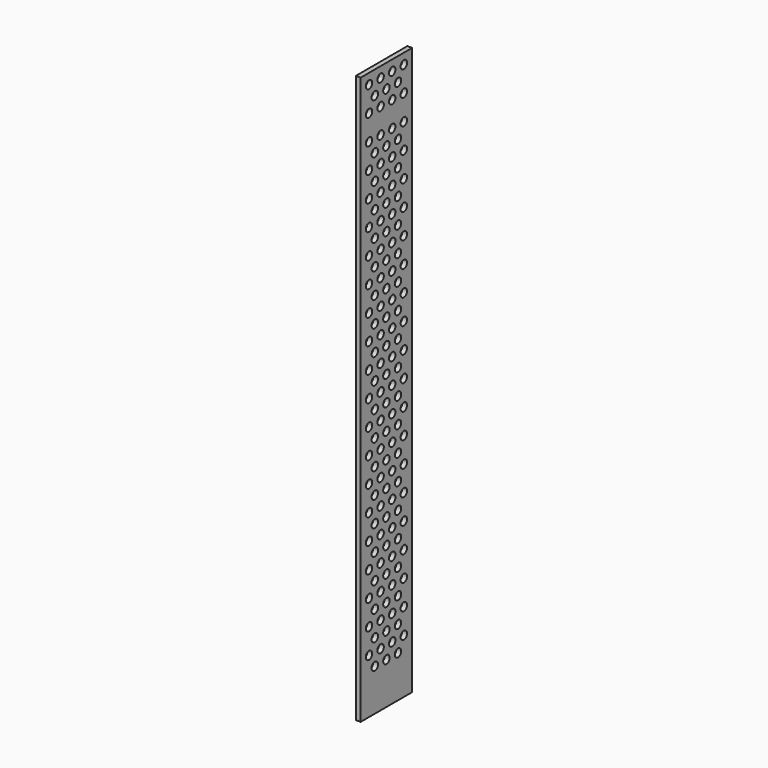
from build123d import *

# Parameters (mm, degrees)
F1_W     = 254
F1_H     = 2235.2
F1_R     = 15.875
F2_DEPTH = 19.05


with BuildPart() as f2:
    # F1 (on Right) → F2 (new body)
    with BuildSketch(Plane.YZ):
        Rectangle(F1_W, F1_H)
        with Locations((-85.725, -903.409073)):
            Circle(F1_R, mode=Mode.SUBTRACT)
        with Locations((-85.725, -804.422369)):
            Circle(F1_R, mode=Mode.SUBTRACT)
        with Locations((-85.725, -705.435666)):
            Circle(F1_R, mode=Mode.SUBTRACT)
        with Locations((-85.725, -606.448962)):
            Circle(F1_R, mode=Mode.SUBTRACT)
        with Locations((-57.15, -952.902425)):
            Circle(F1_R, mode=Mode.SUBTRACT)
        with Locations((-57.15, -853.915721)):
            Circle(F1_R, mode=Mode.SUBTRACT)
        with Locations((-28.575, -903.409073)):
            Circle(F1_R, mode=Mode.SUBTRACT)
        with Locations((-57.15, -754.929018)):
            Circle(F1_R, mode=Mode.SUBTRACT)
        with Locations((-57.15, -655.942314)):
            Circle(F1_R, mode=Mode.SUBTRACT)
        with Locations((-28.575, -804.422369)):
            Circle(F1_R, mode=Mode.SUBTRACT)
        with Locations((-28.575, -705.435666)):
            Circle(F1_R, mode=Mode.SUBTRACT)
        with Locations((-28.575, -606.448962)):
            Circle(F1_R, mode=Mode.SUBTRACT)
        with Locations((-85.725, -507.462258)):
            Circle(F1_R, mode=Mode.SUBTRACT)
        with Locations((-85.725, -408.475555)):
            Circle(F1_R, mode=Mode.SUBTRACT)
        with Locations((-85.725, -309.488851)):
            Circle(F1_R, mode=Mode.SUBTRACT)
        with Locations((-85.725, -210.502147)):
            Circle(F1_R, mode=Mode.SUBTRACT)
        with Locations((-85.725, -111.515444)):
            Circle(F1_R, mode=Mode.SUBTRACT)
        with Locations((-85.725, -12.52874)):
            Circle(F1_R, mode=Mode.SUBTRACT)
        with Locations((-57.15, -556.95561)):
            Circle(F1_R, mode=Mode.SUBTRACT)
        with Locations((-57.15, -457.968907)):
            Circle(F1_R, mode=Mode.SUBTRACT)
        with Locations((-57.15, -358.982203)):
            Circle(F1_R, mode=Mode.SUBTRACT)
        with Locations((-28.575, -507.462258)):
            Circle(F1_R, mode=Mode.SUBTRACT)
        with Locations((-28.575, -408.475555)):
            Circle(F1_R, mode=Mode.SUBTRACT)
        with Locations((-28.575, -309.488851)):
            Circle(F1_R, mode=Mode.SUBTRACT)
        with Locations((-57.15, -259.995499)):
            Circle(F1_R, mode=Mode.SUBTRACT)
        with Locations((-57.15, -161.008796)):
            Circle(F1_R, mode=Mode.SUBTRACT)
        with Locations((-57.15, -62.022092)):
            Circle(F1_R, mode=Mode.SUBTRACT)
        with Locations((-28.575, -210.502147)):
            Circle(F1_R, mode=Mode.SUBTRACT)
        with Locations((-28.575, -111.515444)):
            Circle(F1_R, mode=Mode.SUBTRACT)
        with Locations((-28.575, -12.52874)):
            Circle(F1_R, mode=Mode.SUBTRACT)
        with Locations((0, -952.902425)):
            Circle(F1_R, mode=Mode.SUBTRACT)
        with Locations((0, -853.915721)):
            Circle(F1_R, mode=Mode.SUBTRACT)
        with Locations((28.575, -903.409073)):
            Circle(F1_R, mode=Mode.SUBTRACT)
        with Locations((57.15, -952.902425)):
            Circle(F1_R, mode=Mode.SUBTRACT)
        with Locations((57.15, -853.915721)):
            Circle(F1_R, mode=Mode.SUBTRACT)
        with Locations((0, -754.929018)):
            Circle(F1_R, mode=Mode.SUBTRACT)
        with Locations((28.575, -804.422369)):
            Circle(F1_R, mode=Mode.SUBTRACT)
        with Locations((28.575, -705.435666)):
            Circle(F1_R, mode=Mode.SUBTRACT)
        with Locations((0, -655.942314)):
            Circle(F1_R, mode=Mode.SUBTRACT)
        with Locations((28.575, -606.448962)):
            Circle(F1_R, mode=Mode.SUBTRACT)
        with Locations((57.15, -754.929018)):
            Circle(F1_R, mode=Mode.SUBTRACT)
        with Locations((57.15, -655.942314)):
            Circle(F1_R, mode=Mode.SUBTRACT)
        with Locations((85.725, -903.409073)):
            Circle(F1_R, mode=Mode.SUBTRACT)
        with Locations((85.725, -804.422369)):
            Circle(F1_R, mode=Mode.SUBTRACT)
        with Locations((85.725, -705.435666)):
            Circle(F1_R, mode=Mode.SUBTRACT)
        with Locations((85.725, -606.448962)):
            Circle(F1_R, mode=Mode.SUBTRACT)
        with Locations((0, -556.95561)):
            Circle(F1_R, mode=Mode.SUBTRACT)
        with Locations((0, -457.968907)):
            Circle(F1_R, mode=Mode.SUBTRACT)
        with Locations((28.575, -507.462258)):
            Circle(F1_R, mode=Mode.SUBTRACT)
        with Locations((0, -358.982203)):
            Circle(F1_R, mode=Mode.SUBTRACT)
        with Locations((28.575, -408.475555)):
            Circle(F1_R, mode=Mode.SUBTRACT)
        with Locations((28.575, -309.488851)):
            Circle(F1_R, mode=Mode.SUBTRACT)
        with Locations((57.15, -556.95561)):
            Circle(F1_R, mode=Mode.SUBTRACT)
        with Locations((57.15, -457.968907)):
            Circle(F1_R, mode=Mode.SUBTRACT)
        with Locations((57.15, -358.982203)):
            Circle(F1_R, mode=Mode.SUBTRACT)
        with Locations((0, -259.995499)):
            Circle(F1_R, mode=Mode.SUBTRACT)
        with Locations((0, -161.008796)):
            Circle(F1_R, mode=Mode.SUBTRACT)
        with Locations((28.575, -210.502147)):
            Circle(F1_R, mode=Mode.SUBTRACT)
        with Locations((0, -62.022092)):
            Circle(F1_R, mode=Mode.SUBTRACT)
        with Locations((28.575, -111.515444)):
            Circle(F1_R, mode=Mode.SUBTRACT)
        with Locations((28.575, -12.52874)):
            Circle(F1_R, mode=Mode.SUBTRACT)
        with Locations((57.15, -259.995499)):
            Circle(F1_R, mode=Mode.SUBTRACT)
        with Locations((57.15, -161.008796)):
            Circle(F1_R, mode=Mode.SUBTRACT)
        with Locations((57.15, -62.022092)):
            Circle(F1_R, mode=Mode.SUBTRACT)
        with Locations((85.725, -507.462258)):
            Circle(F1_R, mode=Mode.SUBTRACT)
        with Locations((85.725, -408.475555)):
            Circle(F1_R, mode=Mode.SUBTRACT)
        with Locations((85.725, -309.488851)):
            Circle(F1_R, mode=Mode.SUBTRACT)
        with Locations((85.725, -210.502147)):
            Circle(F1_R, mode=Mode.SUBTRACT)
        with Locations((85.725, -111.515444)):
            Circle(F1_R, mode=Mode.SUBTRACT)
        with Locations((85.725, -12.52874)):
            Circle(F1_R, mode=Mode.SUBTRACT)
        with Locations((-85.725, 86.457963)):
            Circle(F1_R, mode=Mode.SUBTRACT)
        with Locations((-85.725, 185.444667)):
            Circle(F1_R, mode=Mode.SUBTRACT)
        with Locations((-85.725, 284.431371)):
            Circle(F1_R, mode=Mode.SUBTRACT)
        with Locations((-85.725, 383.418074)):
            Circle(F1_R, mode=Mode.SUBTRACT)
        with Locations((-85.725, 482.404778)):
            Circle(F1_R, mode=Mode.SUBTRACT)
        with Locations((-57.15, 36.964612)):
            Circle(F1_R, mode=Mode.SUBTRACT)
        with Locations((-57.15, 135.951315)):
            Circle(F1_R, mode=Mode.SUBTRACT)
        with Locations((-57.15, 234.938019)):
            Circle(F1_R, mode=Mode.SUBTRACT)
        with Locations((-28.575, 86.457963)):
            Circle(F1_R, mode=Mode.SUBTRACT)
        with Locations((-28.575, 185.444667)):
            Circle(F1_R, mode=Mode.SUBTRACT)
        with Locations((-57.15, 333.924723)):
            Circle(F1_R, mode=Mode.SUBTRACT)
        with Locations((-57.15, 432.911426)):
            Circle(F1_R, mode=Mode.SUBTRACT)
        with Locations((-57.15, 531.89813)):
            Circle(F1_R, mode=Mode.SUBTRACT)
        with Locations((-28.575, 284.431371)):
            Circle(F1_R, mode=Mode.SUBTRACT)
        with Locations((-28.575, 383.418074)):
            Circle(F1_R, mode=Mode.SUBTRACT)
        with Locations((-28.575, 482.404778)):
            Circle(F1_R, mode=Mode.SUBTRACT)
        with Locations((-85.725, 581.391482)):
            Circle(F1_R, mode=Mode.SUBTRACT)
        with Locations((-85.725, 680.378185)):
            Circle(F1_R, mode=Mode.SUBTRACT)
        with Locations((-85.725, 779.364889)):
            Circle(F1_R, mode=Mode.SUBTRACT)
        with Locations((-85.725, 878.351593)):
            Circle(F1_R, mode=Mode.SUBTRACT)
        with Locations((-85.725, 977.338296)):
            Circle(F1_R, mode=Mode.SUBTRACT)
        with Locations((-85.725, 1076.325)):
            Circle(F1_R, mode=Mode.SUBTRACT)
        with Locations((-57.15, 630.884834)):
            Circle(F1_R, mode=Mode.SUBTRACT)
        with Locations((-57.15, 729.871537)):
            Circle(F1_R, mode=Mode.SUBTRACT)
        with Locations((-57.15, 828.858241)):
            Circle(F1_R, mode=Mode.SUBTRACT)
        with Locations((-28.575, 581.391482)):
            Circle(F1_R, mode=Mode.SUBTRACT)
        with Locations((-28.575, 680.378185)):
            Circle(F1_R, mode=Mode.SUBTRACT)
        with Locations((-28.575, 779.364889)):
            Circle(F1_R, mode=Mode.SUBTRACT)
        with Locations((-57.15, 1026.831648)):
            Circle(F1_R, mode=Mode.SUBTRACT)
        with Locations((-28.575, 878.351593)):
            Circle(F1_R, mode=Mode.SUBTRACT)
        with Locations((-28.575, 977.338296)):
            Circle(F1_R, mode=Mode.SUBTRACT)
        with Locations((-28.575, 1076.325)):
            Circle(F1_R, mode=Mode.SUBTRACT)
        with Locations((0, 36.964612)):
            Circle(F1_R, mode=Mode.SUBTRACT)
        with Locations((0, 135.951315)):
            Circle(F1_R, mode=Mode.SUBTRACT)
        with Locations((28.575, 86.457963)):
            Circle(F1_R, mode=Mode.SUBTRACT)
        with Locations((0, 234.938019)):
            Circle(F1_R, mode=Mode.SUBTRACT)
        with Locations((28.575, 185.444667)):
            Circle(F1_R, mode=Mode.SUBTRACT)
        with Locations((57.15, 36.964612)):
            Circle(F1_R, mode=Mode.SUBTRACT)
        with Locations((57.15, 135.951315)):
            Circle(F1_R, mode=Mode.SUBTRACT)
        with Locations((57.15, 234.938019)):
            Circle(F1_R, mode=Mode.SUBTRACT)
        with Locations((0, 333.924723)):
            Circle(F1_R, mode=Mode.SUBTRACT)
        with Locations((28.575, 284.431371)):
            Circle(F1_R, mode=Mode.SUBTRACT)
        with Locations((28.575, 383.418074)):
            Circle(F1_R, mode=Mode.SUBTRACT)
        with Locations((0, 432.911426)):
            Circle(F1_R, mode=Mode.SUBTRACT)
        with Locations((0, 531.89813)):
            Circle(F1_R, mode=Mode.SUBTRACT)
        with Locations((28.575, 482.404778)):
            Circle(F1_R, mode=Mode.SUBTRACT)
        with Locations((57.15, 333.924723)):
            Circle(F1_R, mode=Mode.SUBTRACT)
        with Locations((57.15, 432.911426)):
            Circle(F1_R, mode=Mode.SUBTRACT)
        with Locations((57.15, 531.89813)):
            Circle(F1_R, mode=Mode.SUBTRACT)
        with Locations((85.725, 86.457963)):
            Circle(F1_R, mode=Mode.SUBTRACT)
        with Locations((85.725, 185.444667)):
            Circle(F1_R, mode=Mode.SUBTRACT)
        with Locations((85.725, 284.431371)):
            Circle(F1_R, mode=Mode.SUBTRACT)
        with Locations((85.725, 383.418074)):
            Circle(F1_R, mode=Mode.SUBTRACT)
        with Locations((85.725, 482.404778)):
            Circle(F1_R, mode=Mode.SUBTRACT)
        with Locations((0, 630.884834)):
            Circle(F1_R, mode=Mode.SUBTRACT)
        with Locations((28.575, 581.391482)):
            Circle(F1_R, mode=Mode.SUBTRACT)
        with Locations((28.575, 680.378185)):
            Circle(F1_R, mode=Mode.SUBTRACT)
        with Locations((0, 729.871537)):
            Circle(F1_R, mode=Mode.SUBTRACT)
        with Locations((0, 828.858241)):
            Circle(F1_R, mode=Mode.SUBTRACT)
        with Locations((28.575, 779.364889)):
            Circle(F1_R, mode=Mode.SUBTRACT)
        with Locations((57.15, 630.884834)):
            Circle(F1_R, mode=Mode.SUBTRACT)
        with Locations((57.15, 729.871537)):
            Circle(F1_R, mode=Mode.SUBTRACT)
        with Locations((57.15, 828.858241)):
            Circle(F1_R, mode=Mode.SUBTRACT)
        with Locations((28.575, 878.351593)):
            Circle(F1_R, mode=Mode.SUBTRACT)
        with Locations((28.575, 977.338296)):
            Circle(F1_R, mode=Mode.SUBTRACT)
        with Locations((0, 1026.831648)):
            Circle(F1_R, mode=Mode.SUBTRACT)
        with Locations((28.575, 1076.325)):
            Circle(F1_R, mode=Mode.SUBTRACT)
        with Locations((57.15, 1026.831648)):
            Circle(F1_R, mode=Mode.SUBTRACT)
        with Locations((85.725, 581.391482)):
            Circle(F1_R, mode=Mode.SUBTRACT)
        with Locations((85.725, 680.378185)):
            Circle(F1_R, mode=Mode.SUBTRACT)
        with Locations((85.725, 779.364889)):
            Circle(F1_R, mode=Mode.SUBTRACT)
        with Locations((85.725, 878.351593)):
            Circle(F1_R, mode=Mode.SUBTRACT)
        with Locations((85.725, 977.338296)):
            Circle(F1_R, mode=Mode.SUBTRACT)
        with Locations((85.725, 1076.325)):
            Circle(F1_R, mode=Mode.SUBTRACT)
    extrude(amount=F2_DEPTH)


solid = f2.part
